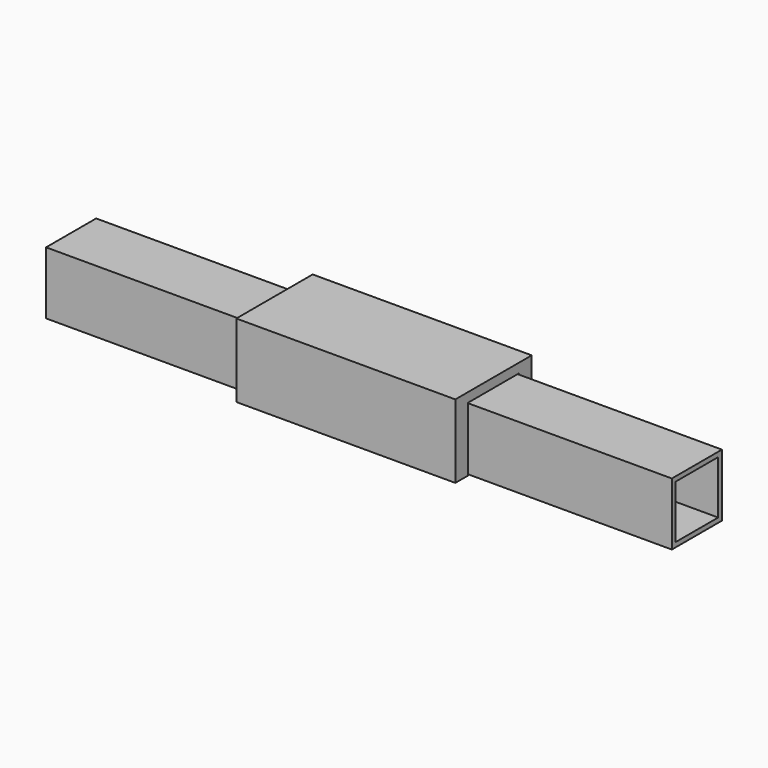
from build123d import *

# Parameters (mm, degrees)
SKETCH_W     = 20
SKETCH_H     = 20
SKETCH_W_2   = 17
SKETCH_H_2   = 17
PAD_DEPTH    = 100
PAD001_DEPTH = 35


with BuildPart() as obj1:
    # Sketch → Pad (new body, symmetric)
    with BuildSketch(Plane.YZ):
        Rectangle(SKETCH_W, SKETCH_H)
        Rectangle(SKETCH_W_2, SKETCH_H_2, mode=Mode.SUBTRACT)
    extrude(amount=PAD_DEPTH, both=True)


with BuildPart() as obj2:
    # Sketch001 → Pad001 (new body, symmetric)
    with BuildSketch(Plane.YZ):
        Polygon((-10.25, -10.25), (-10.25, 10.25), (10.25, 10.25), (10.25, -10.25), (15.25, -10.25), (15.25, 13.25), (-15.25, 13.25), (-15.25, -10.25), align=None)
    extrude(amount=PAD001_DEPTH, both=True)


solid = Compound([obj1.part, obj2.part])
